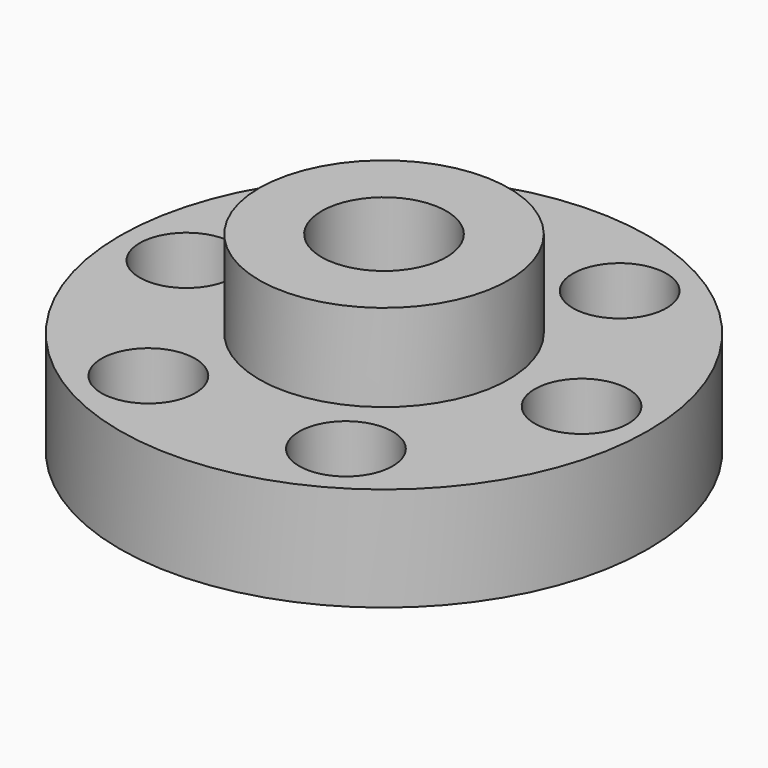
from build123d import *

# Parameters (mm, degrees)
F3_D     = 4.5
F3_DEPTH = 7
F3_TIP   = 1.3519363928


with BuildPart() as f1:
    # F0 (on Front) → F1 (revolve)
    with BuildSketch(Plane.XZ):
        Polygon((-12.7, 0), (-3, 0), (-3, 9.2), (-6, 9.2), (-6, 5), (-12.7, 5), align=None)
    revolve(axis=Axis((0, 0, 4.6), (0, 0, -1)))

    # F3
    with Locations(Plane.XY.offset(5)):
        with Locations((-4.75, 8.227241336), (-9.5, 0), (-4.75, -8.227241336), (4.75, -8.227241336), (9.5, 0), (4.75, 8.227241336)):
            Hole(F3_D / 2, depth=F3_DEPTH)
            with Locations((0, 0, -(F3_DEPTH + F3_TIP / 2))):  # 118° drill point
                Cone(0, F3_D / 2, F3_TIP, mode=Mode.SUBTRACT)


solid = f1.part
